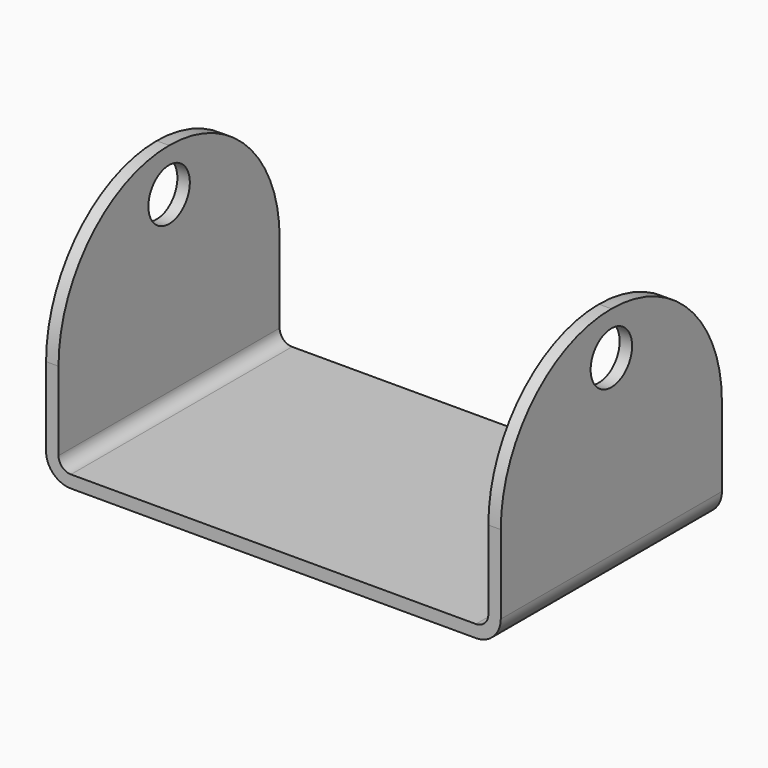
from build123d import *

# Parameters (mm, degrees)
F1_DEPTH = 25.4
F2_R     = 4.7625
F3_DEPTH = 83.567


with BuildPart() as f1:
    # F0 (on Front) → F1 (new body, symmetric)
    with BuildSketch(Plane.XZ):
        with BuildLine():
            ThreePointArc((-41.783, 4.572), (-40.443892, 1.339108), (-37.211, 0))
            Line((-37.211, 0), (37.211, 0))
            ThreePointArc((37.211, 0), (40.443892, 1.339108), (41.783, 4.572))
            Line((41.783, 4.572), (41.783, 44.45))
            Line((41.783, 44.45), (39.497, 44.45))
            Line((39.497, 44.45), (39.497, 4.572))
            ThreePointArc((39.497, 4.572), (38.827446, 2.955554), (37.211, 2.286))
            Line((37.211, 2.286), (-37.211, 2.286))
            ThreePointArc((-37.211, 2.286), (-38.827446, 2.955554), (-39.497, 4.572))
            Line((-39.497, 4.572), (-39.497, 44.45))
            Line((-39.497, 44.45), (-41.783, 44.45))
            Line((-41.783, 44.45), (-41.783, 4.572))
        make_face()
    extrude(amount=F1_DEPTH, both=True)

    # F2 (on face) → F3 (cut, through all)
    with BuildSketch(Plane(origin=(-41.783, 0, 0), x_dir=(0, -1, 0), z_dir=(-1, 0, 0))):
        with BuildLine():
            ThreePointArc((-25.4, 19.05), (-17.960512, 37.010512), (0, 44.45))
            Line((0, 44.45), (-25.4, 44.45))
            Line((-25.4, 44.45), (-25.4, 19.05))
        make_face()
        with Locations((0, 36.5125)):
            Circle(F2_R)
        with BuildLine():
            ThreePointArc((0, 44.45), (17.960512, 37.010512), (25.4, 19.05))
            Line((25.4, 19.05), (25.4, 44.45))
            Line((25.4, 44.45), (0, 44.45))
        make_face()
    extrude(amount=-F3_DEPTH, mode=Mode.SUBTRACT)


solid = f1.part
